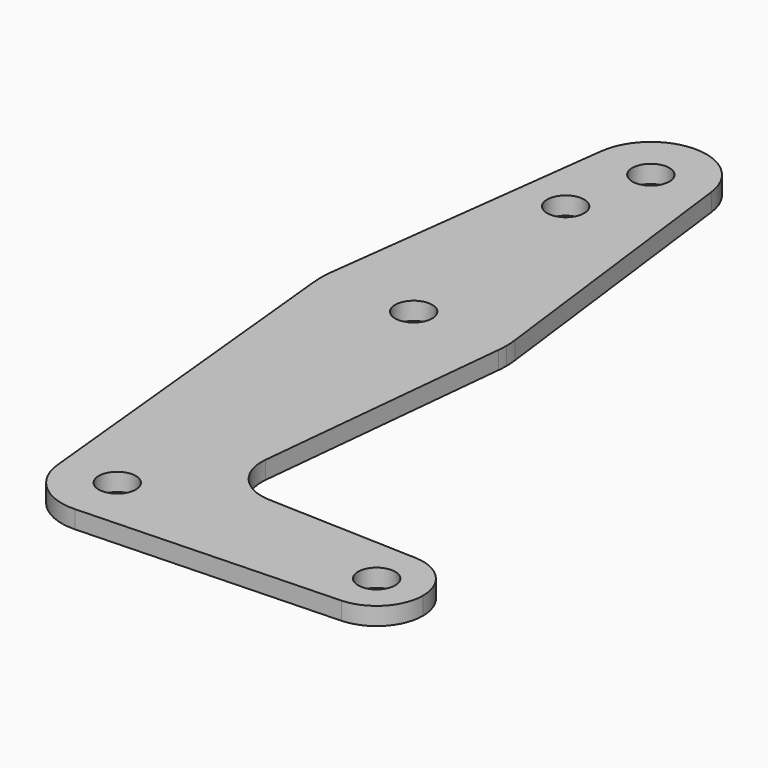
from build123d import *

# Parameters (mm, degrees)
F0_R     = 3.175
F1_DEPTH = 3.048


with BuildPart() as f1:
    # F0 (on Top) → F1 (new body)
    with BuildSketch(Plane.XY):
        with BuildLine():
            ThreePointArc((-9.450293, 59.233591), (-0.596483, 48.536661), (9.525, 58.042966))
            ThreePointArc((9.525, 58.042966), (9.506305, 58.639449), (9.450293, 59.233591))
            ThreePointArc((9.450293, 59.233591), (0, 67.567966), (-9.450293, 59.233591))
        make_face()
        with Locations((0, 58.042966)):
            Circle(F0_R, mode=Mode.SUBTRACT)
        with BuildLine():
            ThreePointArc((9.450293, 59.233591), (9.506305, 58.639449), (9.525, 58.042966))
            ThreePointArc((9.525, 58.042966), (-0.596483, 48.536661), (-9.450293, 59.233591))
            Line((-9.450293, 59.233591), (-15.750488, 9.227341))
            ThreePointArc((-15.750488, 9.227341), (0, 23.117966), (15.750488, 9.227341))
            Line((15.750488, 9.227341), (9.450293, 59.233591))
        make_face()
        with Locations((-3.175, 43.768166)):
            Circle(F0_R, mode=Mode.SUBTRACT)
        with BuildLine():
            ThreePointArc((15.875, 7.242966), (15.843841, 8.237105), (15.750488, 9.227341))
            ThreePointArc((15.750488, 9.227341), (0, 23.117966), (-15.750488, 9.227341))
            ThreePointArc((-15.750488, 9.227341), (-15.873744, 7.442671), (-15.795426, 5.655466))
            ThreePointArc((-15.795426, 5.655466), (0, -8.632034), (15.795426, 5.655466))
            ThreePointArc((15.795426, 5.655466), (15.855094, 6.448219), (15.875, 7.242966))
        make_face()
        with Locations((0, 7.242966)):
            Circle(F0_R, mode=Mode.SUBTRACT)
        with BuildLine():
            ThreePointArc((15.795426, 5.655466), (0, -8.632034), (-15.795426, 5.655466))
            Line((-15.795426, 5.655466), (-9.477255, -57.209534))
            ThreePointArc((-9.477255, -57.209534), (-0.476848, -46.743978), (9.525, -56.257034))
            ThreePointArc((9.525, -56.257034), (6.854408, -62.870861), (0.340179, -65.775957))
            Line((0.340179, -65.775957), (44.733482, -64.18947))
            ThreePointArc((44.733482, -64.18947), (36.5125, -56.257034), (44.733482, -48.324598))
            Line((44.733482, -48.324598), (18.9676, -47.4038))
            ThreePointArc((18.9676, -47.4038), (13.2612, -44.685675), (11.341187, -38.663652))
            Line((11.341187, -38.663652), (15.795426, 5.655466))
        make_face()
        with BuildLine():
            ThreePointArc((9.525, -56.257034), (-0.476848, -46.743978), (-9.477255, -57.209534))
            ThreePointArc((-9.477255, -57.209534), (-6.262383, -63.433954), (0.340179, -65.775957))
            ThreePointArc((0.340179, -65.775957), (6.854408, -62.870861), (9.525, -56.257034))
        make_face()
        with Locations((0, -56.257034)):
            Circle(F0_R, mode=Mode.SUBTRACT)
        with BuildLine():
            ThreePointArc((44.733482, -48.324598), (36.5125, -56.257034), (44.733482, -64.18947))
            ThreePointArc((44.733482, -64.18947), (50.162007, -61.768557), (52.3875, -56.257034))
            ThreePointArc((52.3875, -56.257034), (50.162007, -50.745511), (44.733482, -48.324598))
        make_face()
        with Locations((44.45, -56.257034)):
            Circle(F0_R, mode=Mode.SUBTRACT)
    extrude(amount=F1_DEPTH)


solid = f1.part
